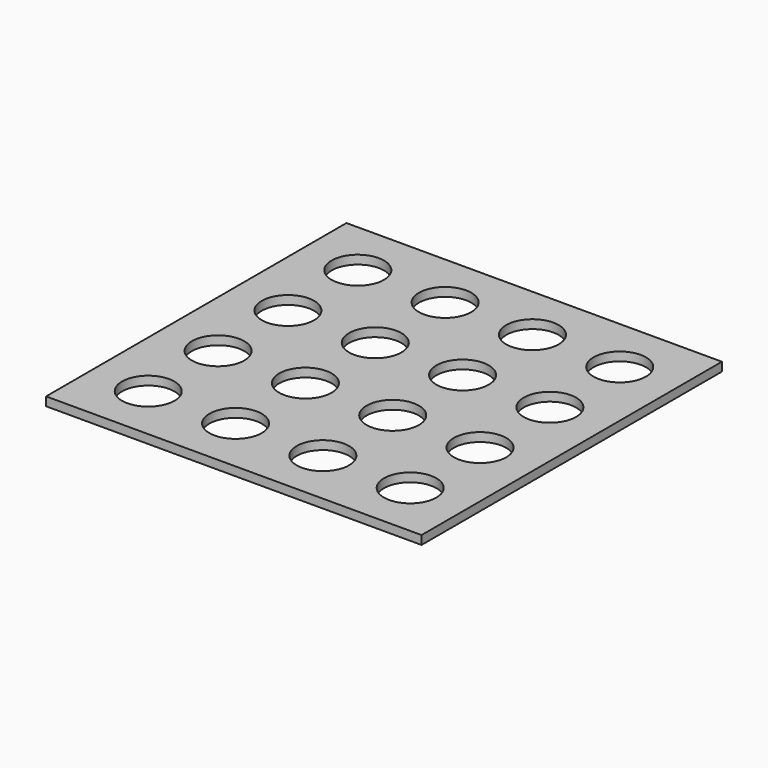
from build123d import *

# Parameters (mm, degrees)
F0_W     = 273.05
F0_H     = 273.05
F0_R     = 19.05
F1_DEPTH = 3.175


with BuildPart() as f1:
    # F0 (on Top) → F1 (new body, symmetric)
    with BuildSketch(Plane.XY):
        Rectangle(F0_W, F0_H)
        with Locations((-95.25, -95.25)):
            Circle(F0_R, mode=Mode.SUBTRACT)
        with Locations((-31.75, -95.25)):
            Circle(F0_R, mode=Mode.SUBTRACT)
        with Locations((-95.25, -31.75)):
            Circle(F0_R, mode=Mode.SUBTRACT)
        with Locations((-31.75, -31.75)):
            Circle(F0_R, mode=Mode.SUBTRACT)
        with Locations((31.75, -95.25)):
            Circle(F0_R, mode=Mode.SUBTRACT)
        with Locations((95.25, -95.25)):
            Circle(F0_R, mode=Mode.SUBTRACT)
        with Locations((31.75, -31.75)):
            Circle(F0_R, mode=Mode.SUBTRACT)
        with Locations((95.25, -31.75)):
            Circle(F0_R, mode=Mode.SUBTRACT)
        with Locations((-95.25, 31.75)):
            Circle(F0_R, mode=Mode.SUBTRACT)
        with Locations((-31.75, 31.75)):
            Circle(F0_R, mode=Mode.SUBTRACT)
        with Locations((-95.25, 95.25)):
            Circle(F0_R, mode=Mode.SUBTRACT)
        with Locations((-31.75, 95.25)):
            Circle(F0_R, mode=Mode.SUBTRACT)
        with Locations((31.75, 31.75)):
            Circle(F0_R, mode=Mode.SUBTRACT)
        with Locations((95.25, 31.75)):
            Circle(F0_R, mode=Mode.SUBTRACT)
        with Locations((31.75, 95.25)):
            Circle(F0_R, mode=Mode.SUBTRACT)
        with Locations((95.25, 95.25)):
            Circle(F0_R, mode=Mode.SUBTRACT)
    extrude(amount=F1_DEPTH, both=True)


solid = f1.part
